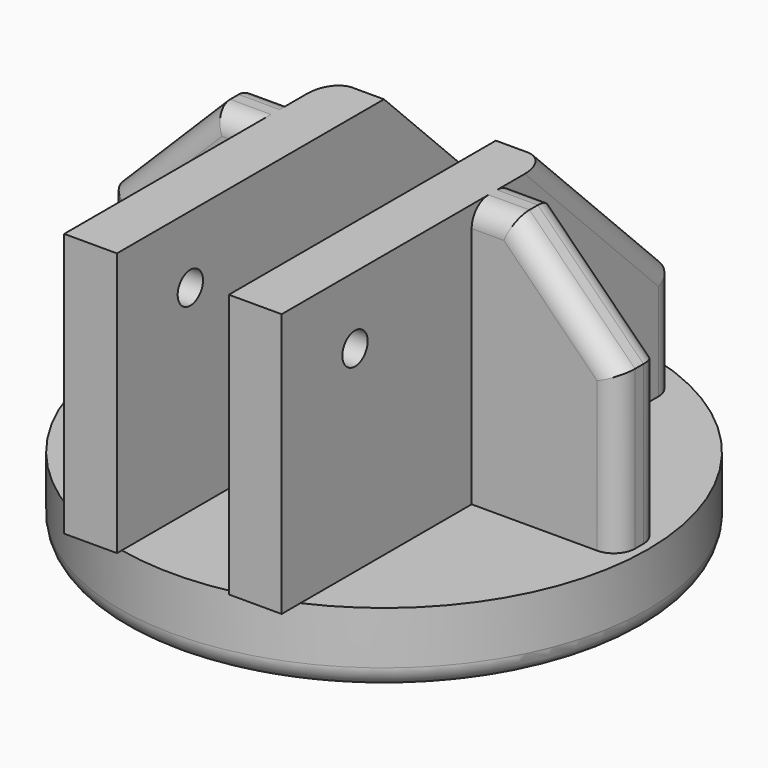
from build123d import *

# Parameters (mm, degrees)
SKETCH_R        = 25
PAD_DEPTH       = 7
PAD001_DEPTH    = 25
CHAMFER_SIZE    = 15
CHAMFER001_SIZE = 10
FILLET_R        = 2
FILLET001_R     = 2
FILLET002_R     = 2
SKETCH002_R     = 1.5
POCKET_DEPTH    = 35.301
FILLET003_R     = 2


with BuildPart() as part:
    # Sketch → Pad (new body)
    with BuildSketch(Plane.XY):
        Circle(SKETCH_R)
    extrude(amount=PAD_DEPTH)

    # Sketch001 → Pad001 (new body)
    with BuildSketch(Plane.XY.offset(7)):
        Polygon((5.3, 21.614464), (10.3, 21.614464), (10.3, 2.5), (24.176399, 2.5), (24.176399, -2.5), (10.3, -2.5), (10.3, -25), (5.3, -25), align=None)
    pad001 = extrude(amount=PAD001_DEPTH)

    # Mirrored: Pad001 across Sketch001 V_Axis
    add(pad001.mirror(Plane(origin=(0, 0, 7), x_dir=(0, 0, 1), z_dir=(1, 0, 0))))

    # Chamfer
    chamfer_edges = [part.edges().sort_by_distance(p)[0] for p in [
        (7.8, 21.614464, 32),
        (-7.8, 21.614464, 32),
    ]]
    chamfer(chamfer_edges, length=CHAMFER_SIZE)

    # Chamfer001
    chamfer001_edges = [part.edges().sort_by_distance(p)[0] for p in [
        (24.176399, 0, 32),
        (-24.176399, 0, 32),
    ]]
    chamfer(chamfer001_edges, length=CHAMFER001_SIZE)

    # Fillet
    fillet_edges = [part.edges().sort_by_distance(p)[0] for p in [
        (10.3, 14.114464, 24.5),
        (10.3, 21.614464, 12),
        (-10.3, 14.114464, 24.5),
        (-10.3, 21.614464, 12),
    ]]
    fillet(fillet_edges, radius=FILLET_R)

    # Fillet001
    fillet001_edges = [part.edges().sort_by_distance(p)[0] for p in [
        (-19.176399, 2.5, 27),
        (-24.176399, 2.5, 14.5),
        (-19.176399, -2.5, 27),
        (-24.176399, -2.5, 14.5),
        (-12.2382, 2.5, 32),
        (-12.2382, -2.5, 32),
    ]]
    fillet(fillet001_edges, radius=FILLET001_R)

    # Fillet002
    fillet002_edges = [part.edges().sort_by_distance(p)[0] for p in [
        (12.2382, 2.5, 32),
        (19.176399, 2.5, 27),
        (24.176399, 2.5, 14.5),
        (24.176399, -2.5, 14.5),
        (19.176399, -2.5, 27),
        (12.2382, -2.5, 32),
    ]]
    fillet(fillet002_edges, radius=FILLET002_R)

    # Sketch002 → Pocket (cut, through all)
    with BuildSketch(Plane.YZ.offset(10.3)):
        with Locations((11.140296, 13.568136)):
            Circle(SKETCH002_R)
        with Locations((-16.31287, 25.611097)):
            Circle(SKETCH002_R)
    extrude(amount=-POCKET_DEPTH, mode=Mode.SUBTRACT)

    # Fillet003
    fillet003_edges = [part.edges().sort_by_distance(p)[0] for p in [
        (-25, 0, 0),
    ]]
    fillet(fillet003_edges, radius=FILLET003_R)


solid = part.part
